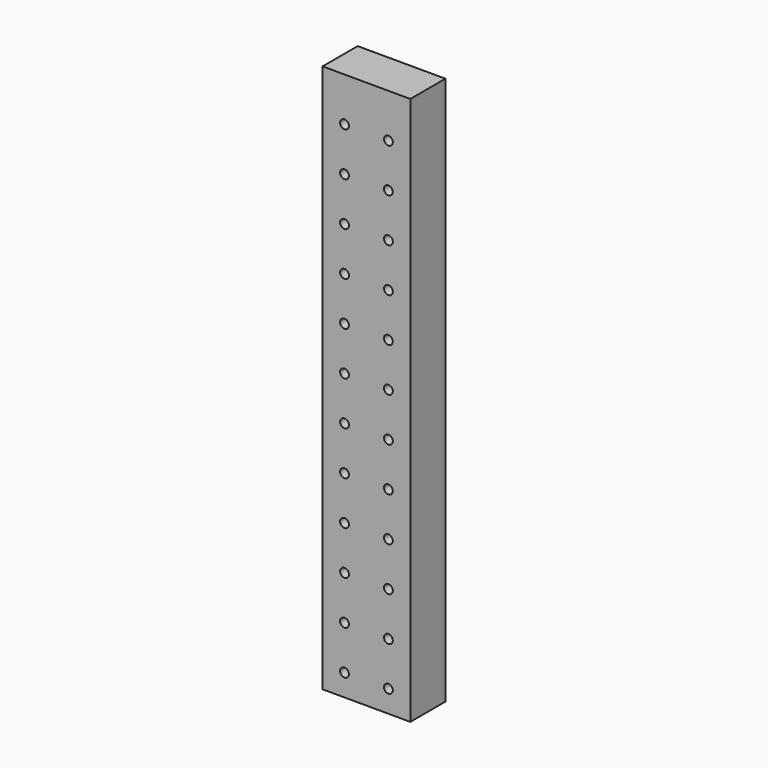
from build123d import *

# Parameters (mm, degrees)
F1_DEPTH = 25.4
F2_R     = 2.5527
F3_DEPTH = 508


with BuildPart() as f1:
    # F0 (on Front) → F1 (new body)
    with BuildSketch(Plane.XZ):
        Polygon((-34.742154, 143.544283), (-34.742154, -173.955717), (16.057761, -174.048798), (16.057761, 143.451202), align=None)
    extrude(amount=F1_DEPTH)

    # F2 (on face) → F3 (cut)
    with BuildSketch(Plane.XZ.offset(25.4)):
        with Locations((-22.042154, -161.278966)):
            Circle(F2_R)
        with Locations((-22.042154, -135.878966)):
            Circle(F2_R)
        with Locations((-22.042154, -110.478966)):
            Circle(F2_R)
        with Locations((-22.042154, -85.078966)):
            Circle(F2_R)
        with Locations((-22.042154, -59.678966)):
            Circle(F2_R)
        with Locations((-22.042154, -34.278966)):
            Circle(F2_R)
        with Locations((-22.042154, -8.878966)):
            Circle(F2_R)
        with Locations((-22.042154, 16.521034)):
            Circle(F2_R)
        with Locations((-22.042154, 41.921034)):
            Circle(F2_R)
        with Locations((-22.042154, 67.321034)):
            Circle(F2_R)
        with Locations((-22.042154, 92.721034)):
            Circle(F2_R)
        with Locations((-22.042154, 118.121034)):
            Circle(F2_R)
        with Locations((3.357846, -161.278966)):
            Circle(F2_R)
        with Locations((3.357846, -135.878966)):
            Circle(F2_R)
        with Locations((3.357846, -110.478966)):
            Circle(F2_R)
        with Locations((3.357846, -85.078966)):
            Circle(F2_R)
        with Locations((3.357846, -59.678966)):
            Circle(F2_R)
        with Locations((3.357846, -34.278966)):
            Circle(F2_R)
        with Locations((3.357846, -8.878966)):
            Circle(F2_R)
        with Locations((3.357846, 16.521034)):
            Circle(F2_R)
        with Locations((3.357846, 41.921034)):
            Circle(F2_R)
        with Locations((3.357846, 67.321034)):
            Circle(F2_R)
        with Locations((3.357846, 92.721034)):
            Circle(F2_R)
        with Locations((3.357846, 118.121034)):
            Circle(F2_R)
        with Locations((-22.042154, 168.921034)):
            Circle(F2_R)
        with Locations((-22.042154, 194.321034)):
            Circle(F2_R)
        with Locations((3.357846, 168.921034)):
            Circle(F2_R)
        with Locations((3.357846, 194.321034)):
            Circle(F2_R)
    extrude(amount=-F3_DEPTH, mode=Mode.SUBTRACT)


solid = f1.part
